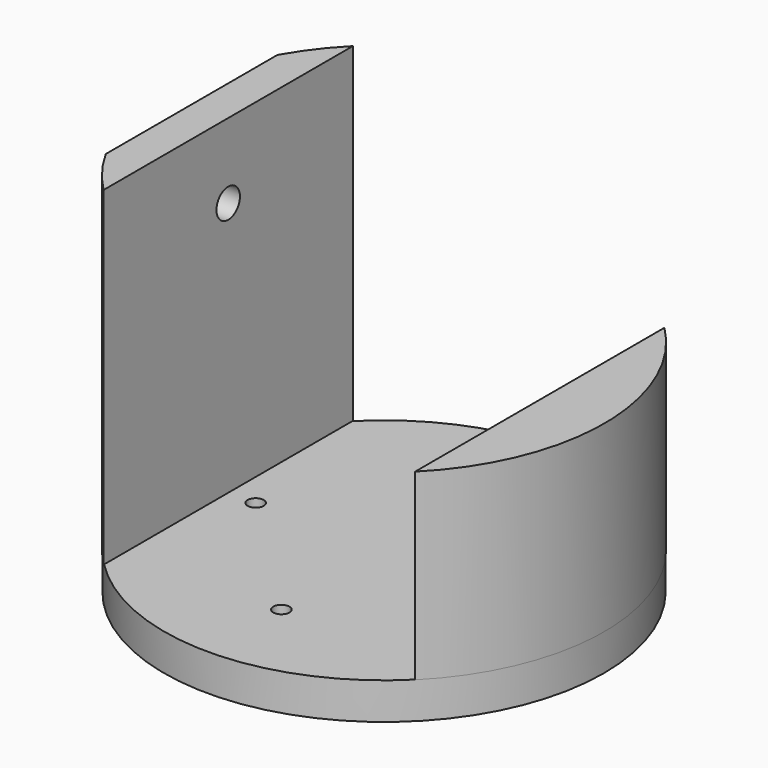
from build123d import *

# Parameters (mm, degrees)
F0_R     = 60
F1_DEPTH = 10
F2_R     = 2.2
F3_DEPTH = 14
F5_DEPTH = 50
F7_DEPTH = 40
F8_R     = 4
F9_DEPTH = 10


with BuildPart() as f1:
    # F0 (on Top) → F1 (new body)
    with BuildSketch(Plane.XY):
        Circle(F0_R)
    extrude(amount=F1_DEPTH)

    # F2 (on face) → F3 (cut)
    with BuildSketch(Plane.XY.offset(10)):
        with Locations((0, 35)):
            Circle(F2_R)
        with Locations((35, 0)):
            Circle(F2_R)
        with Locations((-35, 0)):
            Circle(F2_R)
        with Locations((0, -35)):
            Circle(F2_R)
    extrude(amount=-F3_DEPTH, mode=Mode.SUBTRACT)

    # F4 (on face) → F5 (join)
    with BuildSketch(Plane.XY.offset(10)):
        with BuildLine():
            ThreePointArc((42.5, -42.5), (60.104076, 0), (42.5, 42.5))
            Line((42.5, 42.5), (42.5, -42.5))
        make_face()
        with BuildLine():
            Line((-42.5, -42.5), (-42.5, 42.5))
            ThreePointArc((-42.5, 42.5), (-60.104076, 0), (-42.5, -42.5))
        make_face()
    extrude(amount=F5_DEPTH)

    # F6 (on face) → F7 (join)
    with BuildSketch(Plane.XY.offset(60)):
        with BuildLine():
            Line((-42.5, -42.5), (-42.5, 42.5))
            ThreePointArc((-42.5, 42.5), (-47.95897, 36.227575), (-52.5, 29.26175))
            Line((-52.5, 29.26175), (-52.5, -29.26175))
            ThreePointArc((-52.5, -29.26175), (-47.95897, -36.227575), (-42.5, -42.5))
        make_face()
    extrude(amount=F7_DEPTH)

    # F8 (on face) → F9 (cut)
    with BuildSketch(Plane(origin=(-52.5, 0, 0), x_dir=(0, -1, 0), z_dir=(-1, 0, 0))):
        with Locations((0, 79.53766)):
            Circle(F8_R)
    extrude(amount=-F9_DEPTH, mode=Mode.SUBTRACT)


solid = f1.part
